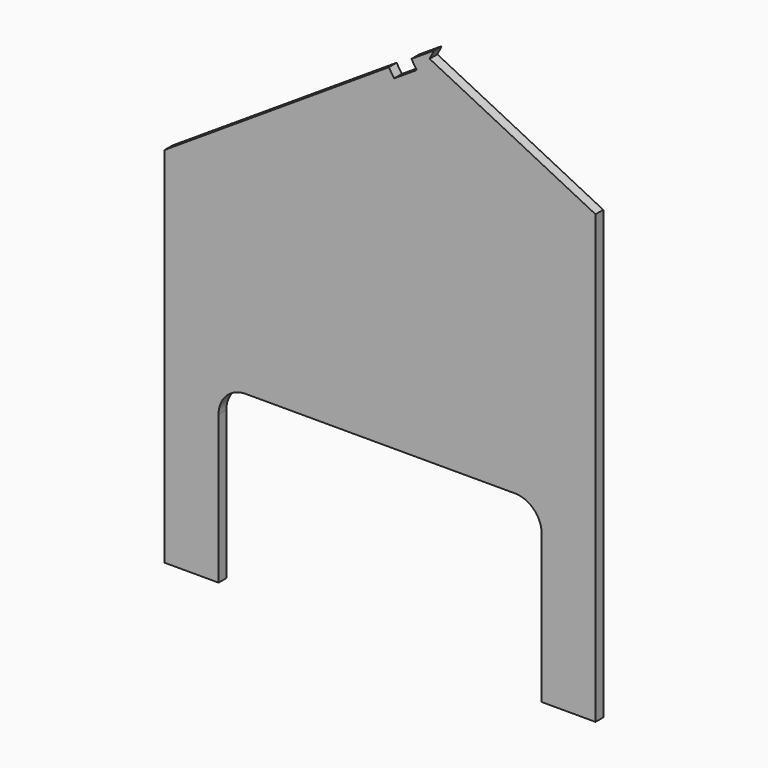
from build123d import *

# Parameters (mm, degrees)
F1_DEPTH = 18
F5_DEPTH = 18
F7_DEPTH = 18


with BuildPart() as f1:
    # F0 (on Front) → F1 (new body)
    with BuildSketch(Plane.XZ):
        with BuildLine():
            Line((0, 675), (0, 0))
            Line((0, 0), (100, 0))
            Line((100, 0), (100, 275))
            ThreePointArc((100, 275), (114.644661, 310.355339), (150, 325))
            Line((150, 325), (650, 325))
            ThreePointArc((650, 325), (685.355339, 310.355339), (700, 275))
            Line((700, 275), (700, 0))
            Line((700, 0), (800, 0))
            Line((800, 0), (800, 850))
            Line((800, 850), (500, 1000))
            Line((500, 1000), (0, 675))
        make_face()
    extrude(amount=F1_DEPTH)

    # F4 (on face) → F5 (cut)
    with BuildSketch(Plane.XZ.offset(18)):
        Polygon((458.077819, 972.750582), (416.155638, 945.501165), (425.965429, 930.40918), (467.887609, 957.658597), align=None)
    extrude(amount=-F5_DEPTH, mode=Mode.SUBTRACT)

    # F6 (on face) → F7 (cut, through all)
    with BuildSketch(Plane.XZ.offset(18)):
        Polygon((500, 1000), (491.950155, 983.900311), (849.721032, 805.014872), (857.770876, 821.114562), align=None)
    extrude(amount=-F7_DEPTH, mode=Mode.SUBTRACT)


solid = f1.part
